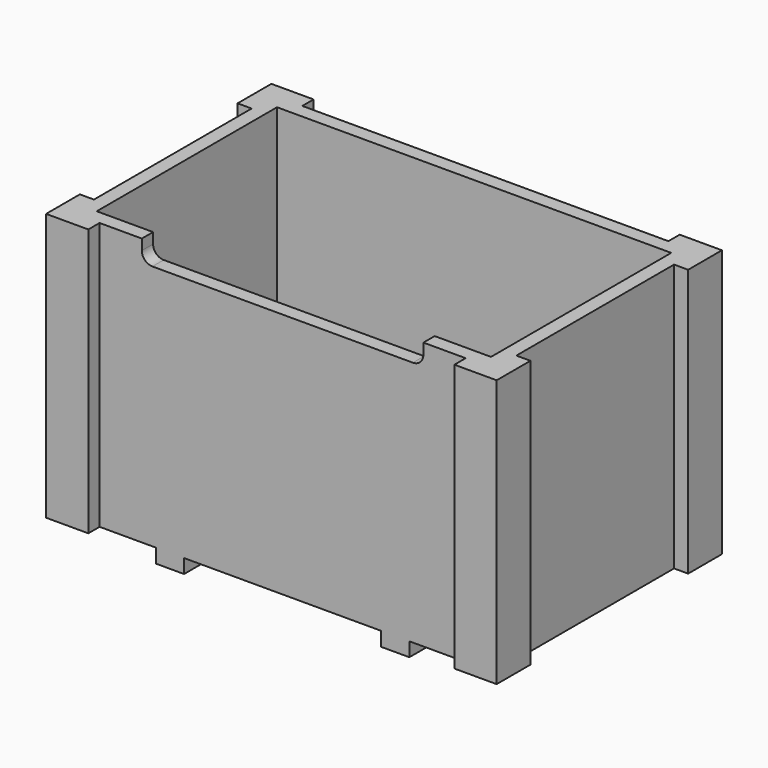
from build123d import *

# Parameters (mm, degrees)
F0_W      = 762
F0_H      = 457.2
F1_DEPTH  = 25.4
F2_W      = 50.8
F2_H      = 457.2
F3_DEPTH  = 25.4
F4_W      = 762
F4_H      = 457.2
F4_W_2    = 711.2
F4_H_2    = 406.4
F5_DEPTH  = 457.2
F6_W      = 50.8
F6_H      = 482.6
F7_DEPTH  = 25.4
F8_W      = 50.8
F8_H      = 482.6
F9_DEPTH  = 25.4
F10_W     = 76.2
F10_H     = 482.6
F11_DEPTH = 25.4
F12_W     = 76.2
F12_H     = 482.6
F13_DEPTH = 25.4
F15_DEPTH = 25.4


with BuildPart() as f1:
    # F0 (on Top) → F1 (new body)
    with BuildSketch(Plane.XY):
        with Locations((-381, 228.6)):
            Rectangle(F0_W, F0_H)
    extrude(amount=F1_DEPTH)

    # F2 (on face) → F3 (join)
    with BuildSketch(Plane(origin=(0, 0, 0), x_dir=(1, 0, 0), z_dir=(0, 0, -1))):
        with Locations((-584.2, -228.6)):
            Rectangle(F2_W, F2_H)
        with Locations((-177.8, -228.6)):
            Rectangle(F2_W, F2_H)
    extrude(amount=F3_DEPTH)

    # F4 (on face) → F5 (join)
    with BuildSketch(Plane.XY.offset(25.4)):
        with Locations((-381, 228.6)):
            Rectangle(F4_W, F4_H)
        with Locations((-381, 228.6)):
            Rectangle(F4_W_2, F4_H_2, mode=Mode.SUBTRACT)
    extrude(amount=F5_DEPTH)

    # F6 (on face) → F7 (join)
    with BuildSketch(Plane(origin=(0, 457.2, 0), x_dir=(-1, 0, 0), z_dir=(0, 1, 0))):
        with Locations((25.4, 241.3)):
            Rectangle(F6_W, F6_H)
        with Locations((736.6, 241.3)):
            Rectangle(F6_W, F6_H)
    extrude(amount=F7_DEPTH)

    # F8 (on face) → F9 (join)
    with BuildSketch(Plane.XZ):
        with Locations((-736.6, 241.3)):
            Rectangle(F8_W, F8_H)
        with Locations((-25.4, 241.3)):
            Rectangle(F8_W, F8_H)
    extrude(amount=F9_DEPTH)

    # F10 (on face) → F11 (join)
    with BuildSketch(Plane.YZ):
        with Locations((12.7, 241.3)):
            Rectangle(F10_W, F10_H)
        with Locations((444.5, 241.3)):
            Rectangle(F10_W, F10_H)
    extrude(amount=F11_DEPTH)

    # F12 (on face) → F13 (join)
    with BuildSketch(Plane(origin=(-762, 0, 0), x_dir=(0, -1, 0), z_dir=(-1, 0, 0))):
        with Locations((-444.5, 241.3)):
            Rectangle(F12_W, F12_H)
        with Locations((-12.7, 241.3)):
            Rectangle(F12_W, F12_H)
    extrude(amount=F13_DEPTH)

    # F14 (on face) → F15 (cut)
    with BuildSketch(Plane.XZ):
        with BuildLine():
            Line((-635, 482.6), (-635, 463.55))
            ThreePointArc((-635, 463.55), (-629.420384, 450.079616), (-615.95, 444.5))
            Line((-615.95, 444.5), (-146.05, 444.5))
            ThreePointArc((-146.05, 444.5), (-132.579616, 450.079616), (-127, 463.55))
            Line((-127, 463.55), (-127, 482.6))
            Line((-127, 482.6), (-635, 482.6))
        make_face()
    extrude(amount=-F15_DEPTH, mode=Mode.SUBTRACT)


solid = f1.part
